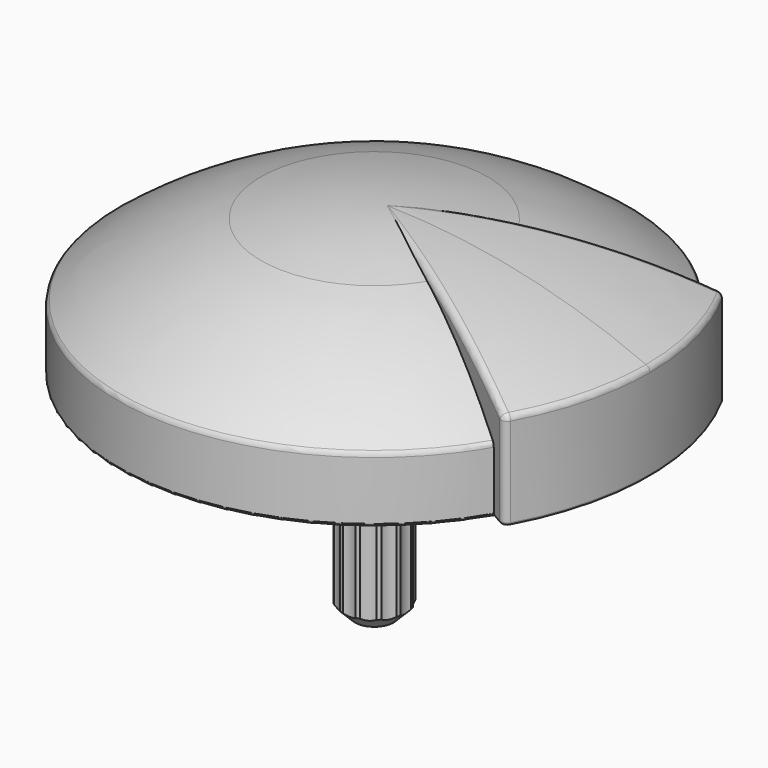
from build123d import *

# Parameters (mm, degrees)
REVOLUTION001_ANGLE = -60
FILLET_R            = 1
FILLET001_R         = 1
CHAMFER_SIZE        = 2
SKETCH004_R         = 2.612312
POCKET_DEPTH        = 26.5
POLARPATTERN_COUNT  = 12
FILLET002_R         = 5
FILLET003_R         = 0.4


with BuildPart() as part:
    # Sketch → Revolution (revolve)
    with BuildSketch(Plane.XZ):
        with BuildLine():
            Line((0, 24), (0, 0))
            Line((0, 0), (40, 0))
            Line((40, 0), (40, 10))
            ThreePointArc((40, 10), (21.18962, 20.398915), (0, 24))
        make_face()
    revolve(axis=Axis((0, 0, 0), (0, 0, 1)))

    # Sketch001 → Revolution001 (revolve, symmetric)
    with BuildSketch(Plane.XZ) as revolution001_sk:
        with BuildLine():
            Line((43, 15), (43, 0))
            Line((43, 0), (0, 0))
            Line((0, 0), (0, 24))
            ThreePointArc((43, 15), (21.965883, 21.725884), (0, 24))
        make_face()
    revolve(axis=Axis((0, 0, 0), (0, 0, 1)), revolution_arc=REVOLUTION001_ANGLE / 2)
    revolve(revolution001_sk.sketch, axis=Axis((0, 0, 0), (0, 0, -1)), revolution_arc=REVOLUTION001_ANGLE / 2)

    # Fillet
    fillet_edges = [part.edges().sort_by_distance(p)[0] for p in [
        (-40, 0, 10),
        (43, 0, 15),
    ]]
    fillet(fillet_edges, radius=FILLET_R)

    # Fillet001
    fillet001_edges = [part.edges().sort_by_distance(p)[0] for p in [
        (37.239092, 21.5, 7.171981),
        (37.239092, -21.5, 7.171981),
    ]]
    fillet(fillet001_edges, radius=FILLET001_R)

    # Sketch002 → Groove (revolve, cut)
    with BuildSketch(Plane.XZ):
        with BuildLine():
            Line((0, 0), (0, 20.5))
            ThreePointArc((22.051296, 16.348704), (11.219324, 19.45314), (0, 20.5))
            Line((38.4, 0), (22.051296, 16.348704))
            Line((38.4, 0), (0, 0))
        make_face()
    revolve(axis=Axis((0, 0, 0), (0, 0, 1)), mode=Mode.SUBTRACT)

    # Sketch003 → Revolution002 (revolve)
    with BuildSketch(Plane.XZ):
        Polygon((6, 20.5), (6, 7), (5, 7), (5, 4), (6, 4), (6, -2), (5, -2), (5, -33), (0, -33), (0, 20.5), align=None)
    revolve(axis=Axis((0, 0, 0), (0, 0, 1)))

    # Chamfer
    chamfer_edges = [part.edges().sort_by_distance(p)[0] for p in [
        (-5, 0, -33),
    ]]
    chamfer(chamfer_edges, length=CHAMFER_SIZE)

    # Sketch004 (on Face4 of Chamfer) → Pocket (cut)
    with BuildSketch(Plane(origin=(0, 0, -33), x_dir=(1, 0, 0), z_dir=(0, 0, -1))):
        with Locations((0, 7.312312)):
            Circle(SKETCH004_R)
    pocket = extrude(amount=-POCKET_DEPTH, mode=Mode.SUBTRACT)

    # PolarPattern: Pocket ×12 about axis
    polarpattern_axis = Axis((0, 0, -33), (0, 0, -1))
    for i in range(1, POLARPATTERN_COUNT):
        add(pocket.rotate(polarpattern_axis, i * 360 / POLARPATTERN_COUNT), mode=Mode.SUBTRACT)

    # Fillet002
    fillet002_edges = [part.edges().sort_by_distance(p)[0] for p in [
        (-6, 0, 20.20245),
    ]]
    fillet(fillet002_edges, radius=FILLET002_R)

    # Fillet003
    fillet003_edges = [part.edges().sort_by_distance(p)[0] for p in [
        (-5, 0, 7),
        (-5, 0, 4),
        (5, 0, 5.5),
        (-6, 0, 4),
        (-6, 0, -2),
        (6, 0, 1),
        (-5, 0, -2),
        (-6, 0, 7),
        (35.501886, 20.497023, 0),
        (37.133056, 21.090797, 0),
        (-40, 0, 0),
        (43, 0, 0),
        (35.501886, -20.497023, 0),
        (37.133056, -21.090797, 0),
        (-38.4, 0, 0),
    ]]
    fillet(fillet003_edges, radius=FILLET003_R)


solid = part.part
